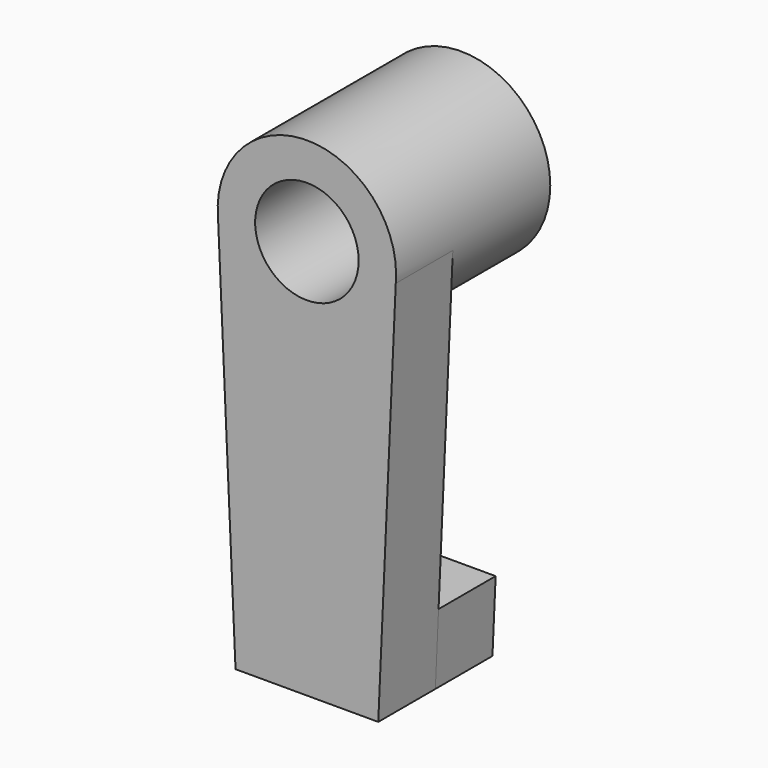
from build123d import *

# Parameters (mm, degrees)
F0_R     = 15.875
F0_R_2   = 9.2075
F1_DEPTH = 34.29
F3_DEPTH = 12.7
F5_DEPTH = 12.7


with BuildPart() as f1:
    # F0 (on Front) → F1 (new body)
    with BuildSketch(Plane.XZ):
        Circle(F0_R)
        Circle(F0_R_2, mode=Mode.SUBTRACT)
    extrude(amount=F1_DEPTH)

    # F2 (on face) → F3 (join)
    with BuildSketch(Plane.XZ.offset(34.29)):
        with BuildLine():
            ThreePointArc((15.8118485958, -1.4145914552), (15.8592042905, -0.7080001915), (15.875, 0))
            Line((15.875, 0), (15.8118485958, -1.4145914552))
        make_face()
        with BuildLine():
            ThreePointArc((-15.875, 0), (-15.8592042905, -0.7080001915), (-15.8118485958, -1.4145914552))
            Line((-15.8118485958, -1.4145914552), (-15.875, 0))
        make_face()
        with BuildLine():
            Line((12.7, -71.12), (15.8118485958, -1.4145914552))
            ThreePointArc((15.8118485958, -1.4145914552), (0, -15.875), (-15.8118485958, -1.4145914552))
            Line((-15.8118485958, -1.4145914552), (-12.7, -71.12))
            Line((-12.7, -71.12), (12.7, -71.12))
        make_face()
    extrude(amount=-F3_DEPTH)

    # F4 (on face) → F5 (join)
    with BuildSketch(Plane(origin=(0, -21.59, 0), x_dir=(-1, 0, 0), z_dir=(0, 1, 0))):
        Polygon((-13.2669642857, -58.42), (-12.7, -71.12), (12.7, -71.12), (13.2669642857, -58.42), align=None)
    extrude(amount=F5_DEPTH)


solid = f1.part
